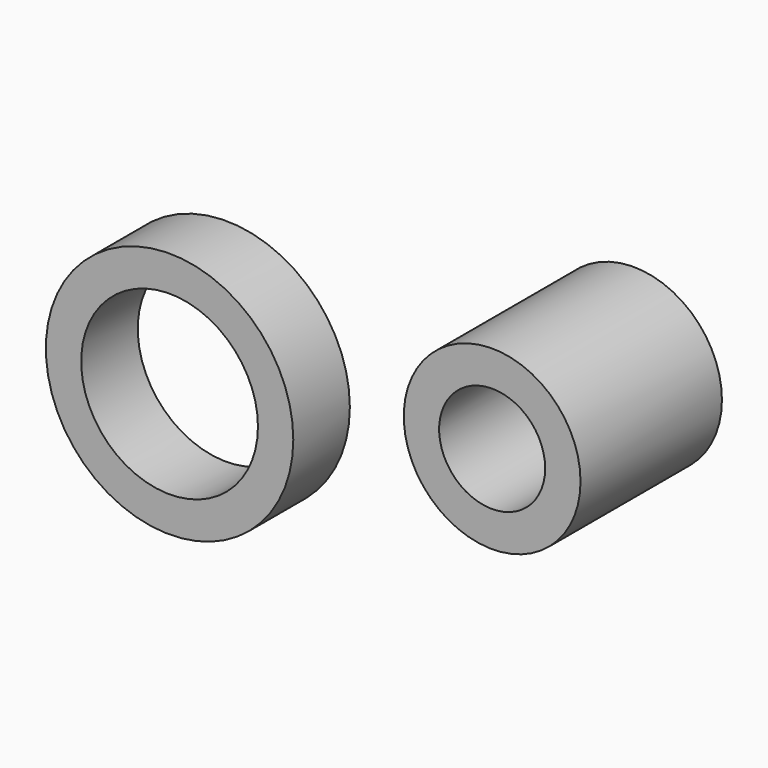
from build123d import *

# Parameters (mm, degrees)
F0_R     = 12.5
F0_R_2   = 7.5
F1_DEPTH = 12.5
F2_R     = 17.5
F2_R_2   = 12.5
F3_DEPTH = 5


with BuildPart() as f1:
    # F0 (on Front) → F1 (new body, symmetric)
    with BuildSketch(Plane.XZ):
        Circle(F0_R)
        Circle(F0_R_2, mode=Mode.SUBTRACT)
    extrude(amount=F1_DEPTH, both=True)


with BuildPart() as f3:
    # F2 (on Front) → F3 (new body, symmetric)
    with BuildSketch(Plane.XZ):
        with Locations((-51.627144, -13.011978)):
            Circle(F2_R)
        with Locations((-51.627144, -13.011978)):
            Circle(F2_R_2, mode=Mode.SUBTRACT)
    extrude(amount=F3_DEPTH, both=True)


solid = Compound([f1.part, f3.part])
